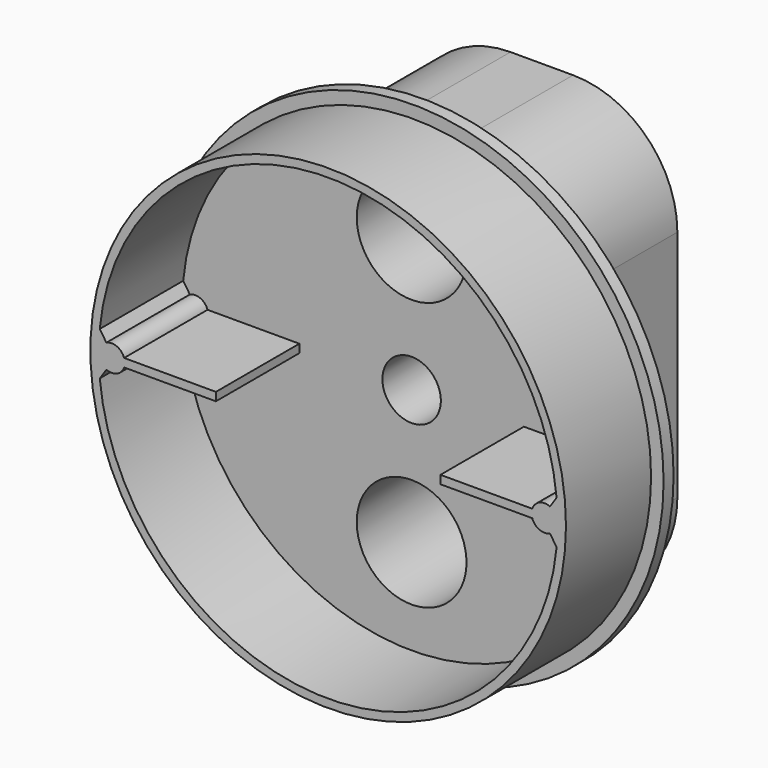
from build123d import *

# Parameters (mm, degrees)
F1_DEPTH  = 64
F2_R      = 60
F3_DEPTH  = 28.5
F4_R      = 60
F4_R_2    = 57
F5_DEPTH  = 25.5
F7_DEPTH  = 6.25
F8_R      = 13.15
F9_DEPTH  = 64.001
F10_R     = 11
F11_DEPTH = 12
F12_R     = 13.15
F13_DEPTH = 25
F14_R     = 7
F15_DEPTH = 57.751


with BuildPart() as f1:
    # F0 (on Front) → F1 (new body)
    with BuildSketch(Plane.XZ):
        with BuildLine():
            ThreePointArc((-32.5, -28), (-25.1776695297, -45.6776695297), (-7.5, -53))
            Line((-7.5, -53), (7.5, -53))
            ThreePointArc((7.5, -53), (25.1776695297, -45.6776695297), (32.5, -28))
            Line((32.5, -28), (32.5, 28))
            ThreePointArc((32.5, 28), (25.1776695297, 45.6776695297), (7.5, 53))
            Line((7.5, 53), (-7.5, 53))
            ThreePointArc((-7.5, 53), (-25.1776695297, 45.6776695297), (-32.5, 28))
            Line((-32.5, 28), (-32.5, -28))
        make_face()
    extrude(amount=F1_DEPTH)

    # F2 (on face) → F3 (join)
    with BuildSketch(Plane.XZ.offset(64)):
        Circle(F2_R)
    extrude(amount=-F3_DEPTH)

    # F4 (on face) → F5 (cut)
    with BuildSketch(Plane.XZ.offset(64)):
        Circle(F4_R)
        Circle(F4_R_2, mode=Mode.SUBTRACT)
    extrude(amount=-F5_DEPTH, mode=Mode.SUBTRACT)

    # F6 (on face) → F7 (cut)
    with BuildSketch(Plane(origin=(0, 0, 0), x_dir=(-1, 0, 0), z_dir=(0, 1, 0))):
        with BuildLine():
            ThreePointArc((10.955166333, 46.2427935703), (16.0339049992, 39.9945133997), (17.85, 32.15))
            ThreePointArc((17.85, 32.15), (-7.8445133997, 16.1160950008), (-10.955166333, 46.2427935703))
            ThreePointArc((-10.955166333, 46.2427935703), (-10.6670838439, 46.4620865798), (-10.3746129282, 46.6754916127))
            add(Edge.make_bspline(
                [(-11.4193501695, 49.6480644458), (-9.7061666222, 49.8827470388), (-8.574372674, 48.2387921733), (-10.3746129282, 46.6754916127)],
                knots=[0, 0, 0, 0, 3.1442100344, 3.1442100344, 3.1442100344, 3.1442100344], degree=3))
            ThreePointArc((-11.4193501695, 49.6480644458), (-24.3852850691, 42.1027354841), (-29.5, 28))
            Line((-29.5, 28), (-29.5, -28))
            ThreePointArc((-29.5, -28), (-24.3852850691, -42.1027354841), (-11.4193501695, -49.6480644458))
            add(Edge.make_bspline(
                [(-11.4193501695, -49.6480644458), (-9.7061666222, -49.8827470388), (-8.574372674, -48.2387921733), (-10.3746129282, -46.6754916127)],
                knots=[0, 0, 0, 0, 3.1442100344, 3.1442100344, 3.1442100344, 3.1442100344], degree=3))
            ThreePointArc((-10.3746129282, -46.6754916127), (-10.6670838439, -46.4620865798), (-10.955166333, -46.2427935703))
            ThreePointArc((-10.955166333, -46.2427935703), (-7.8445133997, -16.1160950008), (17.85, -32.15))
            ThreePointArc((17.85, -32.15), (16.0339049992, -39.9945133997), (10.955166333, -46.2427935703))
            ThreePointArc((10.955166333, -46.2427935703), (10.6670838439, -46.4620865798), (10.3746129282, -46.6754916127))
            add(Edge.make_bspline(
                [(11.4193501695, -49.6480644458), (9.7061666222, -49.8827470388), (8.574372674, -48.2387921733), (10.3746129282, -46.6754916127)],
                knots=[0, 0, 0, 0, 3.1442100344, 3.1442100344, 3.1442100344, 3.1442100344], degree=3))
            ThreePointArc((11.4193501695, -49.6480644458), (24.3852850691, -42.1027354841), (29.5, -28))
            Line((29.5, -28), (29.5, 28))
            ThreePointArc((29.5, 28), (24.3852850691, 42.1027354841), (11.4193501695, 49.6480644458))
            add(Edge.make_bspline(
                [(11.4193501695, 49.6480644458), (9.7061666222, 49.8827470388), (8.574372674, 48.2387921733), (10.3746129282, 46.6754916127)],
                knots=[0, 0, 0, 0, 3.1442100344, 3.1442100344, 3.1442100344, 3.1442100344], degree=3))
            ThreePointArc((10.3746129282, 46.6754916127), (10.6670838439, 46.4620865798), (10.955166333, 46.2427935703))
        make_face()
    extrude(amount=-F7_DEPTH, mode=Mode.SUBTRACT)

    # F8 (on face) → F9 (cut, through all)
    with BuildSketch(Plane(origin=(0, 0, 0), x_dir=(-1, 0, 0), z_dir=(0, 1, 0))):
        with Locations((0, 32.15)):
            Circle(F8_R)
        with Locations((0, -32.15)):
            Circle(F8_R)
    extrude(amount=-F9_DEPTH, mode=Mode.SUBTRACT)

    # F10 (on face) → F11 (cut)
    with BuildSketch(Plane(origin=(0, -6.25, 0), x_dir=(-1, 0, 0), z_dir=(0, 1, 0))):
        with BuildLine():
            add(Edge.make_bspline(
                [(11.4193501695, -49.6480644458), (9.7061666222, -49.8827470388), (8.574372674, -48.2387921733), (10.3746129282, -46.6754916127)],
                knots=[0, 0, 0, 0, 3.1442100344, 3.1442100344, 3.1442100344, 3.1442100344], degree=3))
            ThreePointArc((11.4193501695, -49.6480644458), (24.3852850691, -42.1027354841), (29.5, -28))
            Line((29.5, -28), (29.5, 28))
            ThreePointArc((29.5, 28), (24.3852850691, 42.1027354841), (11.4193501695, 49.6480644458))
            add(Edge.make_bspline(
                [(11.4193501695, 49.6480644458), (9.7061666222, 49.8827470388), (8.574372674, 48.2387921733), (10.3746129282, 46.6754916127)],
                knots=[0, 0, 0, 0, 3.1442100344, 3.1442100344, 3.1442100344, 3.1442100344], degree=3))
            ThreePointArc((10.3746129282, 46.6754916127), (0.3620324059, 14.3036717351), (-10.955166333, 46.2427935703))
            ThreePointArc((-10.955166333, 46.2427935703), (-10.6670838439, 46.4620865798), (-10.3746129282, 46.6754916127))
            add(Edge.make_bspline(
                [(-11.4193501695, 49.6480644458), (-9.7061666222, 49.8827470388), (-8.574372674, 48.2387921733), (-10.3746129282, 46.6754916127)],
                knots=[0, 0, 0, 0, 3.1442100344, 3.1442100344, 3.1442100344, 3.1442100344], degree=3))
            ThreePointArc((-11.4193501695, 49.6480644458), (-24.3852850691, 42.1027354841), (-29.5, 28))
            Line((-29.5, 28), (-29.5, -28))
            ThreePointArc((-29.5, -28), (-24.3852850691, -42.1027354841), (-11.4193501695, -49.6480644458))
            add(Edge.make_bspline(
                [(-11.4193501695, -49.6480644458), (-9.7061666222, -49.8827470388), (-8.574372674, -48.2387921733), (-10.3746129282, -46.6754916127)],
                knots=[0, 0, 0, 0, 3.1442100344, 3.1442100344, 3.1442100344, 3.1442100344], degree=3))
            ThreePointArc((-10.3746129282, -46.6754916127), (0, -14.3), (10.3746129282, -46.6754916127))
        make_face()
        Circle(F10_R, mode=Mode.SUBTRACT)
    extrude(amount=-F11_DEPTH, mode=Mode.SUBTRACT)

    # F12 (on face) → F13 (cut)
    with BuildSketch(Plane.XZ.offset(64)):
        with BuildLine():
            ThreePointArc((-53.1616791792, 2.8478205157), (-50.6283325618, 2.8655619516), (-48.9143201794, 1))
            Line((-48.9143201794, 1), (-26.9143201794, 1))
            Line((-26.9143201794, 1), (-26.9143201794, -1))
            Line((-26.9143201794, -1), (-48.9143201794, -1))
            ThreePointArc((-48.9143201794, -1), (-50.6283325618, -2.8655619516), (-53.1616791792, -2.8478205157))
            Line((-53.1616791792, -2.8478205157), (-54.7518743997, -5.2184528093))
            ThreePointArc((-54.7518743997, -5.2184528093), (0, -55), (54.7518743997, -5.2184528093))
            Line((54.7518743997, -5.2184528093), (53.1616791792, -2.8478205157))
            ThreePointArc((53.1616791792, -2.8478205157), (50.6283325618, -2.8655619516), (48.9143201794, -1))
            Line((48.9143201794, -1), (26.9143201794, -1))
            Line((26.9143201794, -1), (26.9143201794, 1))
            Line((26.9143201794, 1), (48.9143201794, 1))
            ThreePointArc((48.9143201794, 1), (50.6283325618, 2.8655619516), (53.1616791792, 2.8478205157))
            Line((53.1616791792, 2.8478205157), (54.7518743997, 5.2184528093))
            ThreePointArc((54.7518743997, 5.2184528093), (0, 55), (-54.7518743997, 5.2184528093))
            Line((-54.7518743997, 5.2184528093), (-53.1616791792, 2.8478205157))
        make_face()
        with Locations((0, -32.15)):
            Circle(F12_R, mode=Mode.SUBTRACT)
        with Locations((0, 32.15)):
            Circle(F12_R, mode=Mode.SUBTRACT)
    extrude(amount=-F13_DEPTH, mode=Mode.SUBTRACT)

    # F14 (on face) → F15 (cut, through all)
    with BuildSketch(Plane(origin=(0, -6.25, 0), x_dir=(-1, 0, 0), z_dir=(0, 1, 0))):
        Circle(F14_R)
    extrude(amount=-F15_DEPTH, mode=Mode.SUBTRACT)


solid = f1.part
